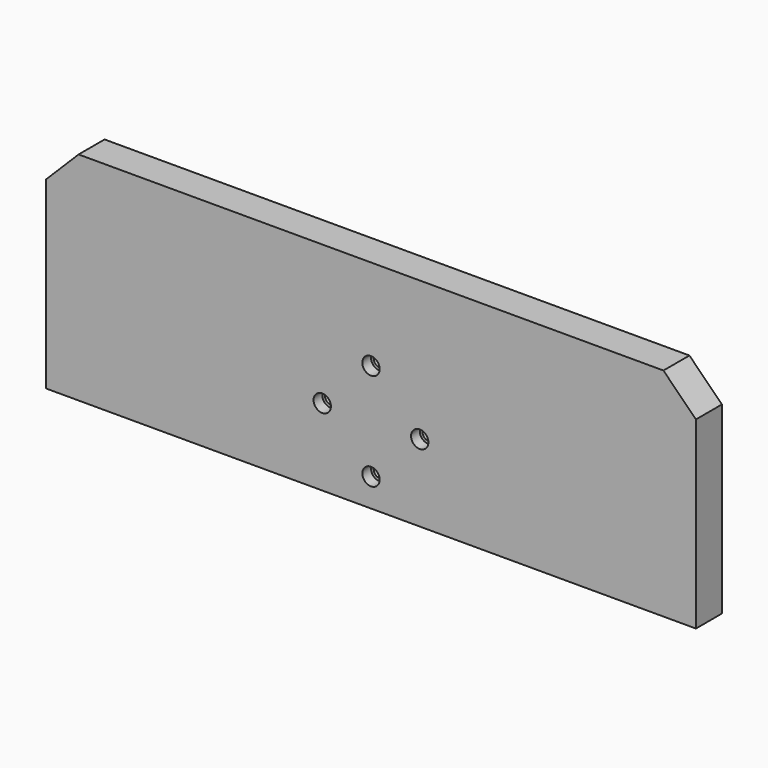
from build123d import *

# Parameters (mm, degrees)
F0_W           = 300
F0_H           = 100
F1_DEPTH       = 15
F3_SIZE        = 15
F4_D           = 5.5
F4_CBORE_D     = 8
F4_CBORE_DEPTH = 5


with BuildPart() as f1:
    # F0 (on Front) → F1 (new body)
    with BuildSketch(Plane.XZ):
        with Locations((150, 50)):
            Rectangle(F0_W, F0_H)
    extrude(amount=-F1_DEPTH)

    # F3
    f3_edges = [f1.edges().sort_by_distance(p)[0] for p in [
        (0, 7.5, 100),
        (300, 7.5, 100),
    ]]
    chamfer(f3_edges, length=F3_SIZE)

    # F4 (through all)
    with Locations(Plane.XZ):
        with Locations((127.5, 35.5), (150, 58), (172.5, 35.5), (150, 13)):
            CounterBoreHole(F4_D / 2, F4_CBORE_D / 2, F4_CBORE_DEPTH)


solid = f1.part
